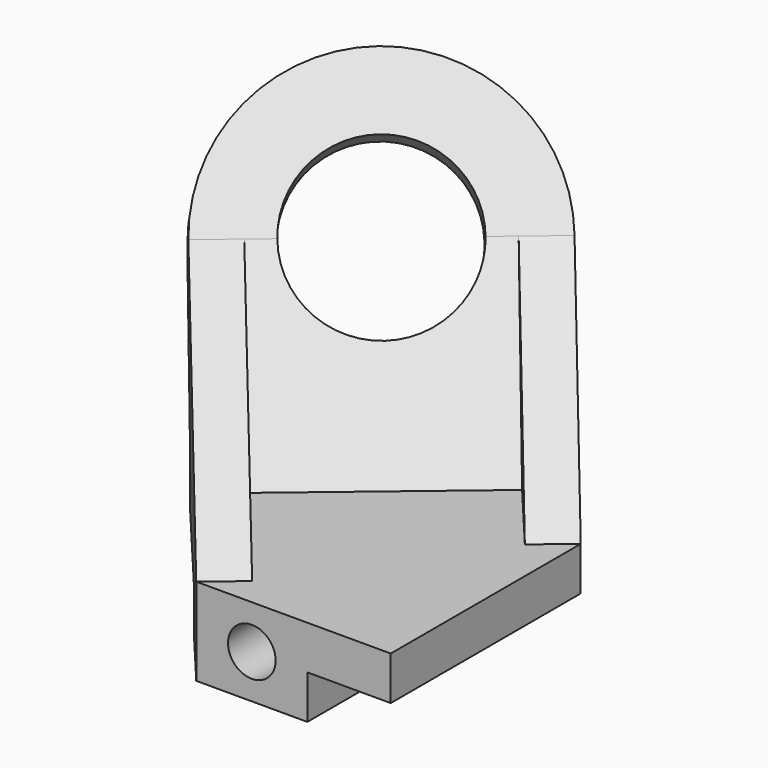
from build123d import *

# Parameters (mm, degrees)
F1_DEPTH  = 22
F2_W      = 21
F2_H      = 11
F2_W_2    = 40.0109538998
F2_H_2    = 12.4791396397
F3_DEPTH  = 87.9211249352
F4_R      = 6
F5_DEPTH  = 87.9211249352
F7_DEPTH  = 76
F9_DEPTH  = 10.9952556712
F10_R     = 20.5
F11_DEPTH = 79.2430002024
F13_DEPTH = 11
F15_DEPTH = 11


with BuildPart() as f1:
    # F0 (on Top) → F1 (new body)
    with BuildSketch(Plane.XY):
        Polygon((-49, 0), (0, 0), (0, 59.8390848043), (-23.562790417, 87.9201249352), (-81.782168094, 39.0682665991), align=None)
    extrude(amount=F1_DEPTH)

    # F2 (on face) → F3 (cut, through all)
    with BuildSketch(Plane.XZ):
        with Locations((-10.5, 5.5)):
            Rectangle(F2_W, F2_H)
        with Locations((-80.0054769499, 4.7604301802)):
            Rectangle(F2_W_2, F2_H_2)
    extrude(amount=-F3_DEPTH, mode=Mode.SUBTRACT)

    # F4 (on face) → F5 (cut, through all)
    with BuildSketch(Plane.XZ):
        with Locations((-35, 11)):
            Circle(F4_R)
    extrude(amount=-F5_DEPTH, mode=Mode.SUBTRACT)

    # F6 (on face) → F7 (join, through all)
    with BuildSketch(Plane(origin=(-28.7543803528, -24.1277899488, 0), x_dir=(0.6427876097, -0.7660444431, 0), z_dir=(-0.7660444431, -0.6427876097, 0))):
        Polygon((-107.1603796377, 57.2235379044), (-82.4965928746, 22), (-69.0738641545, 22), (-97.9683072221, 63.265541273), align=None)
    extrude(amount=-F7_DEPTH)

    # F8 (on face) → F9 (join, through all)
    with BuildSketch(Plane(origin=(-23.1484785961, 27.58728253, -25.2163217941), x_dir=(0.8501498705, 0.3886467221, -0.3552448777), z_dir=(0.5265407845, -0.6275068716, 0.5735764364))):
        with BuildLine():
            Line((-80.6666191033, 81.0518724564), (-12.1853081013, 114.0110903395))
            ThreePointArc((-12.1853081015, 114.0110903394), (-62.905572543, 131.7721368985), (-80.6666191021, 81.0518724571))
        make_face()
    extrude(amount=-F9_DEPTH)

    # F10 (on face) → F11 (cut, through all)
    with BuildSketch(Plane(origin=(-23.1484785962, 27.5872825301, -25.2163217941), x_dir=(0.8501498705, 0.3886467221, -0.3552448777), z_dir=(0.5265407845, -0.6275068716, 0.5735764364))):
        with Locations((-46.4259636018, 97.5314813982)):
            Circle(F10_R)
    extrude(amount=-F11_DEPTH, mode=Mode.SUBTRACT)

    # F12 (on face) → F13 (join)
    with BuildSketch(Plane(origin=(-28.7543803528, -24.1277899488, 0), x_dir=(0.6427876097, -0.7660444431, 0), z_dir=(-0.7660444431, -0.6427876097, 0))):
        Polygon((-31.4965928746, 22), (-97.9683072221, 63.265541273), (-69.0738641544, 22), align=None)
    extrude(amount=-F13_DEPTH)

    # F14 (on face) → F15 (join)
    with BuildSketch(Plane(origin=(29.4649973242, 24.7240683874, 0), x_dir=(-0.6427876097, 0.7660444431, 0), z_dir=(0.7660444431, 0.6427876097, 0))):
        Polygon((69.0738641544, 22), (97.968307222, 63.265541273), (45.8393983956, 22), align=None)
    extrude(amount=-F15_DEPTH)


solid = f1.part
